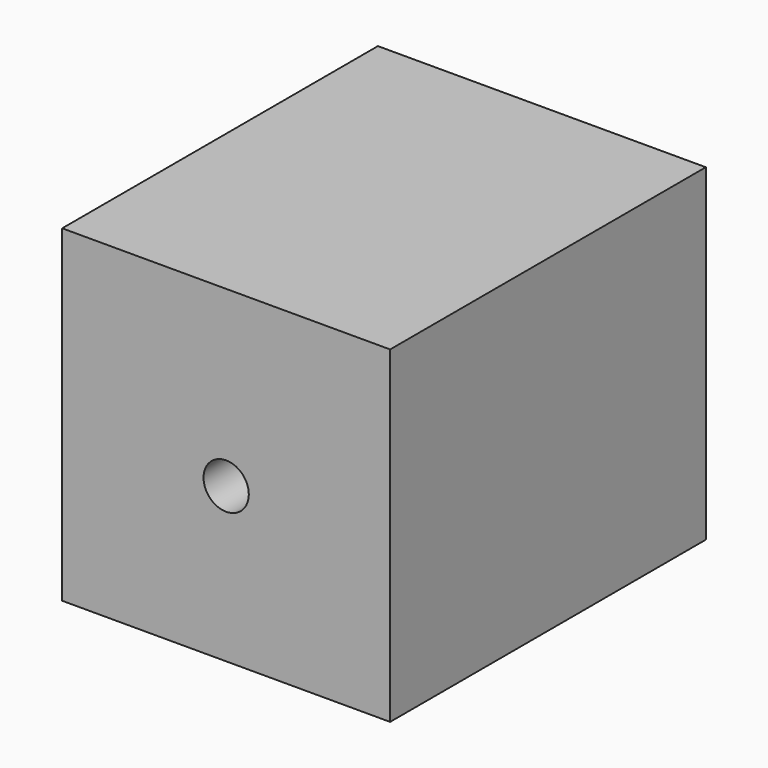
from build123d import *

# Parameters (mm, degrees)
F0_W     = 76.2
F0_H     = 76.2
F0_R     = 5.261416
F1_DEPTH = 91.694
F2_DEPTH = 25.4


with BuildPart() as f1:
    # F0 (on Front) → F1 (new body)
    with BuildSketch(Plane.XZ):
        with Locations((38.1, 38.1)):
            Rectangle(F0_W, F0_H)
        with Locations((38.1, 35.861552)):
            Circle(F0_R, mode=Mode.SUBTRACT)
    extrude(amount=F1_DEPTH)

    # F0 (on Front) → F2 (join)
    with BuildSketch(Plane.XZ):
        with Locations((38.1, 38.1)):
            Rectangle(F0_W, F0_H)
        with Locations((38.1, 35.861552)):
            Circle(F0_R, mode=Mode.SUBTRACT)
    extrude(amount=F2_DEPTH)


solid = f1.part
